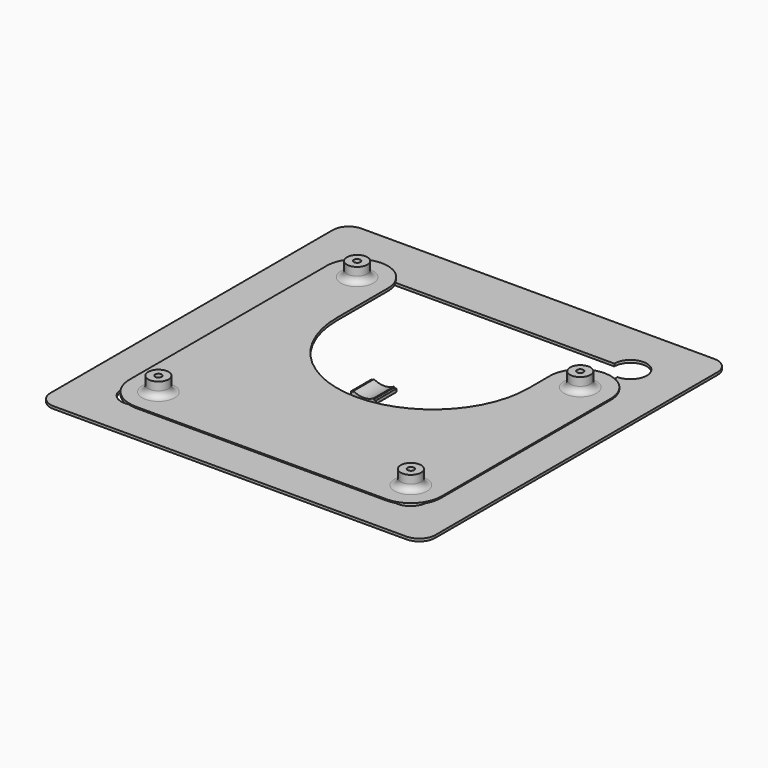
from build123d import *

# Parameters (mm, degrees)
SKETCH_R        = 2.032
PAD_DEPTH       = 1.6002
SKETCH001_R     = 6.35
SKETCH001_R_2   = 2.032
PAD001_DEPTH    = 8.89
FILLET_R        = 3.81
PAD002_DEPTH    = 0.8
SKETCH003_W     = 170.442
SKETCH003_H     = 171.458
POCKET_DEPTH    = 1.601
SKETCH004_R     = 10.16
POCKET001_DEPTH = 5.08
PAD003_DEPTH    = 1.6
PAD004_DEPTH    = 16
SKETCH007_W     = 12.7
SKETCH007_H     = 6.35
POCKET002_DEPTH = 15.549


with BuildPart() as test_stand:
    # Sketch → Pad (new body)
    with BuildSketch(Plane.XY):
        with BuildLine():
            ThreePointArc((-97.79, -76.033159), (-91.789543, -90.519543), (-77.303159, -96.52))
            Line((78.74, -96.52), (-77.303159, -96.52))
            ThreePointArc((78.74, -96.52), (92.210384, -90.940384), (97.79, -77.47))
            Line((97.79, 54.61), (97.79, -77.47))
            ThreePointArc((97.79, 54.61), (78.74, 73.66), (59.69, 54.61))
            Line((59.69, 38.1), (59.69, 54.61))
            ThreePointArc((-59.69, 38.1), (0, -21.59), (59.69, 38.1))
            Line((-59.69, 77.47), (-59.69, 38.1))
            ThreePointArc((-59.69, 77.47), (-78.74, 96.52), (-97.79, 77.47))
            Line((-97.79, -76.033159), (-97.79, 77.47))
        make_face()
        with Locations((-78.74, 77.47)):
            Circle(SKETCH_R, mode=Mode.SUBTRACT)
        with Locations((78.74, 54.61)):
            Circle(SKETCH_R, mode=Mode.SUBTRACT)
        with Locations((78.74, -77.47)):
            Circle(SKETCH_R, mode=Mode.SUBTRACT)
        with Locations((-78.74, -77.47)):
            Circle(SKETCH_R, mode=Mode.SUBTRACT)
    extrude(amount=PAD_DEPTH)

    # Sketch001 (on Face16 of Pad) → Pad001 (join)
    with BuildSketch(Plane.XY.offset(1.6002)):
        with Locations((-78.74, 77.47)):
            Circle(SKETCH001_R)
        with Locations((-78.74, 77.47)):
            Circle(SKETCH001_R_2, mode=Mode.SUBTRACT)
        with Locations((78.74, 54.61)):
            Circle(SKETCH001_R)
        with Locations((78.74, 54.61)):
            Circle(SKETCH001_R_2, mode=Mode.SUBTRACT)
        with Locations((78.74, -77.47)):
            Circle(SKETCH001_R)
        with Locations((78.74, -77.47)):
            Circle(SKETCH001_R_2, mode=Mode.SUBTRACT)
        with Locations((-78.74, -77.47)):
            Circle(SKETCH001_R)
        with Locations((-78.74, -77.47)):
            Circle(SKETCH001_R_2, mode=Mode.SUBTRACT)
    extrude(amount=PAD001_DEPTH)

    # Fillet
    fillet_edges = [test_stand.edges().sort_by_distance(p)[0] for p in [
        (-85.09, -77.47, 1.6002),
        (72.39, -77.47, 1.6002),
        (72.39, 54.61, 1.6002),
        (-85.09, 77.47, 1.6002),
    ]]
    fillet(fillet_edges, radius=FILLET_R)


with BuildPart() as stencil_holder:
    # Sketch002 → Pad002 (new body, symmetric)
    with BuildSketch(Plane.XY):
        with BuildLine():
            Line((-110, -120), (110, -120))
            ThreePointArc((110, -120), (117.071068, -117.071068), (120, -110))
            Line((120, -110), (120, 110))
            ThreePointArc((120, 110), (117.071068, 117.071068), (110, 120))
            Line((110, 120), (-110, 120))
            ThreePointArc((-110, 120), (-117.071068, 117.071068), (-120, 110))
            Line((-120, 110), (-120, -110))
            ThreePointArc((-120, -110), (-117.071068, -117.071068), (-110, -120))
        make_face()
    extrude(amount=PAD002_DEPTH, both=True)

    # Sketch003 (on Face10 of Pad002) → Pocket (cut, through all)
    with BuildSketch(Plane.XY.offset(0.8)):
        Rectangle(SKETCH003_W, SKETCH003_H)
    extrude(amount=-POCKET_DEPTH, mode=Mode.SUBTRACT)

    # Sketch004 (on Face5 of Pocket) → Pocket001 (cut)
    with BuildSketch(Plane.XY.offset(0.8)):
        with Locations((-85.221, 85.729)):
            Circle(SKETCH004_R)
        with Locations((85.221, 85.729)):
            Circle(SKETCH004_R)
        with Locations((85.221, -85.729)):
            Circle(SKETCH004_R)
        with Locations((-85.221, -85.729)):
            Circle(SKETCH004_R)
    extrude(amount=-POCKET001_DEPTH, mode=Mode.SUBTRACT)

    # Sketch005 (on Face5 of Pocket001) → Pad003 (join)
    with BuildSketch(Plane.XY.offset(0.8)):
        with BuildLine():
            ThreePointArc((54.221, -71.729), (48.221, -65.729), (42.221, -71.729))
            Line((42.221, -71.729), (42.221, -85.729))
            Line((42.221, -85.729), (54.221, -85.729))
            Line((54.221, -85.729), (54.221, -71.729))
        make_face()
    extrude(amount=-PAD003_DEPTH)


with BuildPart() as obj1:
    # Sketch006 → Pad004 (new body)
    with BuildSketch(Plane.XZ):
        with BuildLine():
            ThreePointArc((-6.25, 0.635), (0, -1.009345), (6.25, 0.635))
            Line((6.25, 0.635), (6.25, 0))
            Line((6.25, 0), (7.774, 0))
            Line((7.774, 0), (7.774, -1.905))
            ThreePointArc((-7.774, -1.905), (0, -3.970664), (7.774, -1.905))
            Line((-7.774, 0), (-7.774, -1.905))
            Line((-6.25, 0), (-7.774, 0))
            Line((-6.25, 0.635), (-6.25, 0))
        make_face()
    extrude(amount=PAD004_DEPTH)

    # Sketch007 (on Face6 of Pad004) → Pocket002 (cut, through all)
    with BuildSketch(Plane(origin=(-7.774, 0, 0), x_dir=(0, 0, -1), z_dir=(-1, 0, 0))):
        with Locations((9.652, 8.255)):
            Rectangle(SKETCH007_W, SKETCH007_H)
    extrude(amount=-POCKET002_DEPTH, mode=Mode.SUBTRACT)


solid = Compound([test_stand.part, stencil_holder.part, obj1.part])
